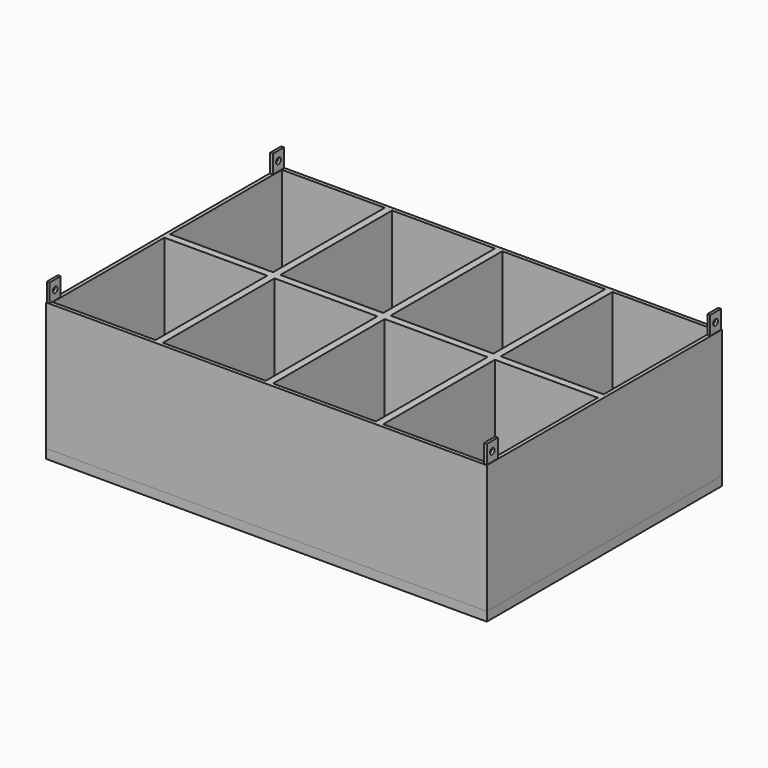
from build123d import *

# Parameters (mm, degrees)
F0_W     = 152.4
F0_H     = 101.6
F0_W_2   = 0.95208
F0_H_2   = 4.7625
F0_W_3   = 35.56
F0_H_3   = 48.26
F1_DEPTH = 3.175
F2_DEPTH = 50.8
F3_DEPTH = 44.45
F5_D     = 2.032
F6_D     = 2.032


with BuildPart() as f1:
    # F0 (on Top) → F1 (new body)
    with BuildSketch(Plane.XY):
        Rectangle(F0_W, F0_H)
        with Locations((-75.560033, -48.241567)):
            Rectangle(F0_W_2, F0_H_2, mode=Mode.SUBTRACT)
        with Locations((-57.15, -25.4)):
            Rectangle(F0_W_3, F0_H_3, mode=Mode.SUBTRACT)
        with Locations((-19.05, -25.4)):
            Rectangle(F0_W_3, F0_H_3, mode=Mode.SUBTRACT)
        with Locations((19.05, -25.4)):
            Rectangle(F0_W_3, F0_H_3, mode=Mode.SUBTRACT)
        with Locations((75.560033, -48.241567)):
            Rectangle(F0_W_2, F0_H_2, mode=Mode.SUBTRACT)
        with Locations((57.15, -25.4)):
            Rectangle(F0_W_3, F0_H_3, mode=Mode.SUBTRACT)
        with Locations((-57.15, 25.4)):
            Rectangle(F0_W_3, F0_H_3, mode=Mode.SUBTRACT)
        with Locations((-75.560033, 48.241567)):
            Rectangle(F0_W_2, F0_H_2, mode=Mode.SUBTRACT)
        with Locations((-19.05, 25.4)):
            Rectangle(F0_W_3, F0_H_3, mode=Mode.SUBTRACT)
        with Locations((19.05, 25.4)):
            Rectangle(F0_W_3, F0_H_3, mode=Mode.SUBTRACT)
        with Locations((57.15, 25.4)):
            Rectangle(F0_W_3, F0_H_3, mode=Mode.SUBTRACT)
        with Locations((75.560033, 48.241567)):
            Rectangle(F0_W_2, F0_H_2, mode=Mode.SUBTRACT)
        with Locations((-57.15, 25.4)):
            Rectangle(F0_W_3, F0_H_3)
        with Locations((-19.05, 25.4)):
            Rectangle(F0_W_3, F0_H_3)
        with Locations((19.05, 25.4)):
            Rectangle(F0_W_3, F0_H_3)
        with Locations((57.15, 25.4)):
            Rectangle(F0_W_3, F0_H_3)
        with Locations((57.15, -25.4)):
            Rectangle(F0_W_3, F0_H_3)
        with Locations((19.05, -25.4)):
            Rectangle(F0_W_3, F0_H_3)
        with Locations((-19.05, -25.4)):
            Rectangle(F0_W_3, F0_H_3)
        with Locations((-57.15, -25.4)):
            Rectangle(F0_W_3, F0_H_3)
    extrude(amount=-F1_DEPTH)


with BuildPart() as f2:
    # F0 (on Top) → F2 (new body)
    with BuildSketch(Plane.XY):
        with Locations((-75.560033, 48.241567)):
            Rectangle(F0_W_2, F0_H_2)
        with Locations((75.560033, 48.241567)):
            Rectangle(F0_W_2, F0_H_2)
        with Locations((75.560033, -48.241567)):
            Rectangle(F0_W_2, F0_H_2)
        with Locations((-75.560033, -48.241567)):
            Rectangle(F0_W_2, F0_H_2)
    extrude(amount=F2_DEPTH)

    # F5 (through all)
    with Locations(Plane(origin=(-76.036073, 0, 0), x_dir=(0, -1, 0), z_dir=(-1, 0, 0))):
        with Locations((-48.241567, 47.625)):
            Hole(F5_D / 2)

    # F6 (through all)
    with Locations(Plane(origin=(-76.036073, 0, 0), x_dir=(0, -1, 0), z_dir=(-1, 0, 0))):
        with Locations((48.241567, 47.625)):
            Hole(F6_D / 2)


with BuildPart() as f3:
    # F0 (on Top) → F3 (new body)
    with BuildSketch(Plane.XY):
        Rectangle(F0_W, F0_H)
        with Locations((-75.560033, -48.241567)):
            Rectangle(F0_W_2, F0_H_2, mode=Mode.SUBTRACT)
        with Locations((-57.15, -25.4)):
            Rectangle(F0_W_3, F0_H_3, mode=Mode.SUBTRACT)
        with Locations((-19.05, -25.4)):
            Rectangle(F0_W_3, F0_H_3, mode=Mode.SUBTRACT)
        with Locations((19.05, -25.4)):
            Rectangle(F0_W_3, F0_H_3, mode=Mode.SUBTRACT)
        with Locations((75.560033, -48.241567)):
            Rectangle(F0_W_2, F0_H_2, mode=Mode.SUBTRACT)
        with Locations((57.15, -25.4)):
            Rectangle(F0_W_3, F0_H_3, mode=Mode.SUBTRACT)
        with Locations((-57.15, 25.4)):
            Rectangle(F0_W_3, F0_H_3, mode=Mode.SUBTRACT)
        with Locations((-75.560033, 48.241567)):
            Rectangle(F0_W_2, F0_H_2, mode=Mode.SUBTRACT)
        with Locations((-19.05, 25.4)):
            Rectangle(F0_W_3, F0_H_3, mode=Mode.SUBTRACT)
        with Locations((19.05, 25.4)):
            Rectangle(F0_W_3, F0_H_3, mode=Mode.SUBTRACT)
        with Locations((57.15, 25.4)):
            Rectangle(F0_W_3, F0_H_3, mode=Mode.SUBTRACT)
        with Locations((75.560033, 48.241567)):
            Rectangle(F0_W_2, F0_H_2, mode=Mode.SUBTRACT)
    extrude(amount=F3_DEPTH)


solid = Compound([f1.part, f2.part, f3.part])
